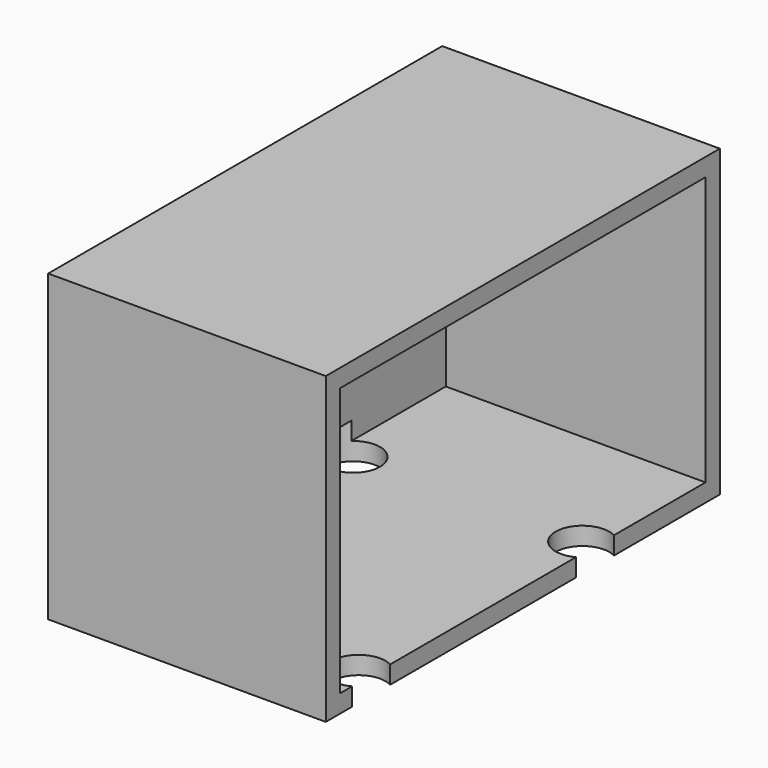
from build123d import *

# Parameters (mm, degrees)
F0_W     = 31
F0_H     = 55
F1_DEPTH = 34
F2_T     = -2
F3_R     = 3
F4_DEPTH = 4


with BuildPart() as f1:
    # F0 (on Top) → F1 (new body)
    with BuildSketch(Plane.XY):
        Rectangle(F0_W, F0_H)
    extrude(amount=F1_DEPTH)

    # F2
    f2_openings = [f1.faces().sort_by_distance(p)[0] for p in [
        (15.5, 0, 17),
    ]]
    offset(amount=F2_T, openings=f2_openings)

    # F3 (on face) → F4 (cut)
    with BuildSketch(Plane(origin=(0, 0, 0), x_dir=(1, 0, 0), z_dir=(0, 0, -1))):
        with Locations((-11.5, -10.076838)):
            Circle(F3_R)
        with Locations((-11.5, 21.163162)):
            Circle(F3_R)
        with Locations((14.1, -10.076838)):
            Circle(F3_R)
        with Locations((14.1, 21.163162)):
            Circle(F3_R)
    extrude(amount=-F4_DEPTH, mode=Mode.SUBTRACT)


solid = f1.part
